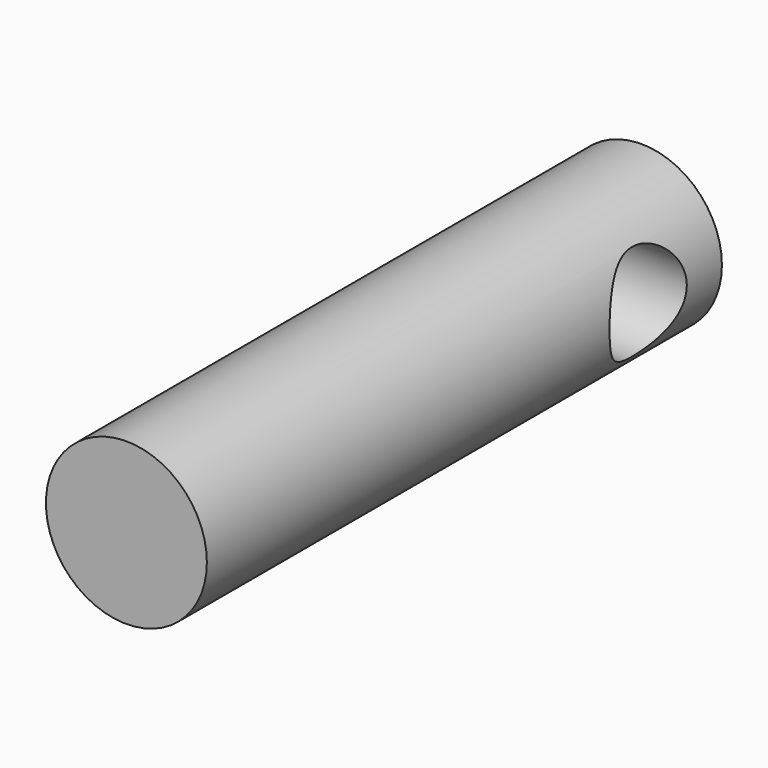
from build123d import *

# Parameters (mm, degrees)
F0_R     = 12.7
F1_DEPTH = 101.6
F4_D     = 15.24


with BuildPart() as f1:
    # F0 (on Front) → F1 (new body)
    with BuildSketch(Plane.XZ):
        Circle(F0_R)
    extrude(amount=F1_DEPTH)

    # F4 (through all)
    with Locations(Plane.YZ.offset(12.7)):
        with Locations((-14.543235, 0)):
            Hole(F4_D / 2)


solid = f1.part
